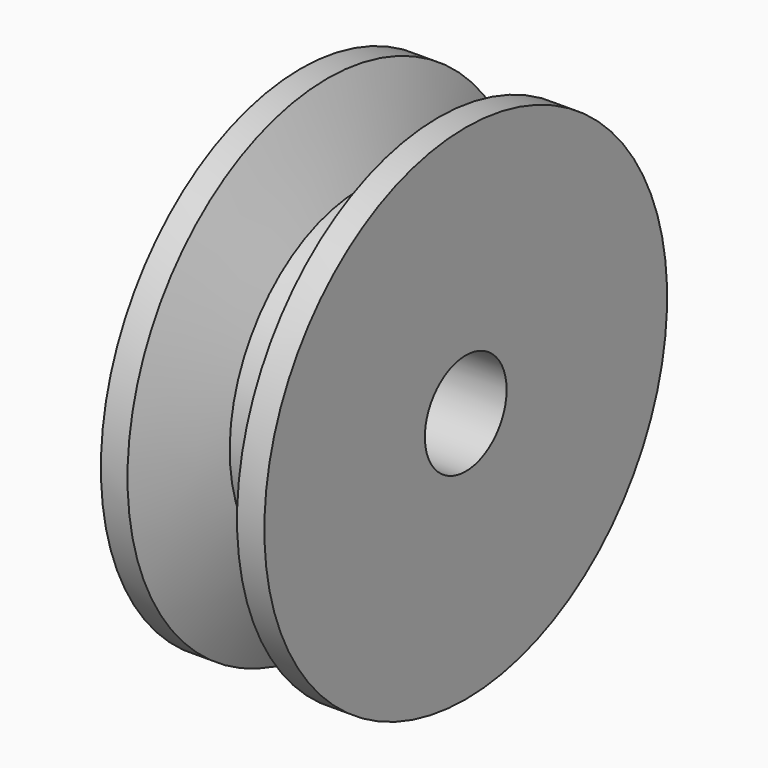
from build123d import *

# Parameters (mm, degrees)
F0_W     = 3.1
F0_H     = 29.1
F0_W_2   = 3.1796320426
F0_H_2   = 29.3082972342
F2_R     = 5.95
F3_DEPTH = 25


with BuildPart() as f1:
    # F0 (on Front) → F1 (revolve)
    with BuildSketch(Plane.XZ):
        with Locations((1.55, 14.55)):
            Rectangle(F0_W, F0_H)
        Polygon((3.1, 29.1), (3.1, 0), (6.9484059341, 0), (6.9484059341, 19.0335457699), align=None)
        Polygon((6.9484059341, 19.0335457699), (6.9484059341, 0), (12.497687584, 0), (12.497687584, 19.122838374), align=None)
        Polygon((12.497687584, 19.122838374), (12.497687584, 0), (16.0203679574, 0), (16.0203679574, 29.3082972342), align=None)
        with Locations((17.6101839787, 14.6541486171)):
            Rectangle(F0_W_2, F0_H_2)
    revolve(axis=Axis((9.6, 0, 0), (1, 0, 0)))

    # F2 (on Right) → F3 (cut)
    with BuildSketch(Plane.YZ):
        Circle(F2_R)
    extrude(amount=F3_DEPTH, mode=Mode.SUBTRACT)


solid = f1.part
